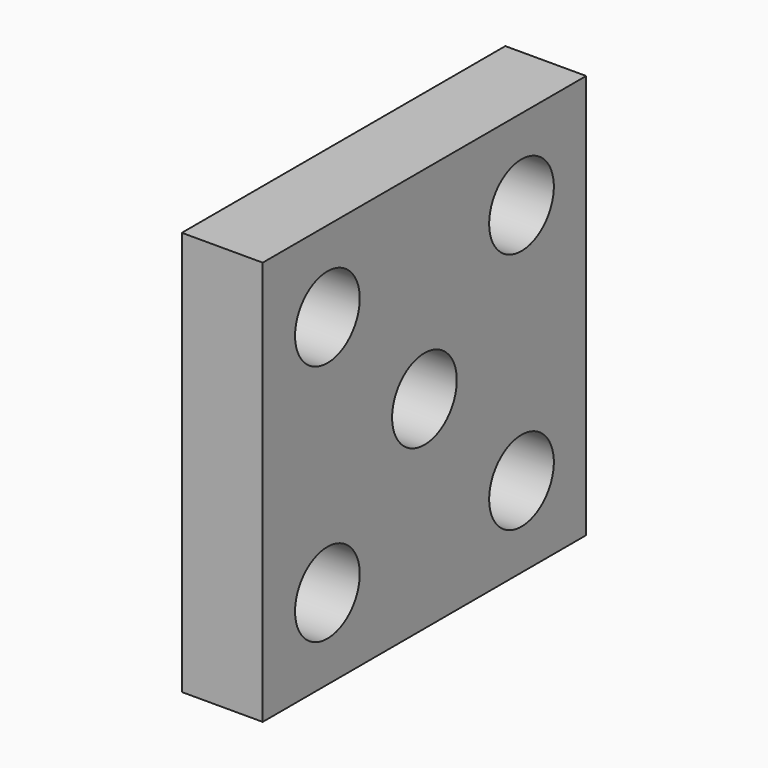
from build123d import *

# Parameters (mm, degrees)
F0_W     = 2
F0_H     = 10
F1_DEPTH = 10
F2_R     = 1
F3_DEPTH = 3


with BuildPart() as f1:
    # F0 (on Top) → F1 (new body)
    with BuildSketch(Plane.XY):
        with Locations((-9.288462, -44.42308)):
            Rectangle(F0_W, F0_H)
    extrude(amount=F1_DEPTH)

    # F2 (on face) → F3 (cut)
    with BuildSketch(Plane(origin=(-10.288462, 0, 0), x_dir=(0, -1, 0), z_dir=(-1, 0, 0))):
        with Locations((41.42308, 8)):
            Circle(F2_R)
        with Locations((44.42308, 5)):
            Circle(F2_R)
        with Locations((47.42308, 8)):
            Circle(F2_R)
        with Locations((47.42308, 2)):
            Circle(F2_R)
        with Locations((41.42308, 2)):
            Circle(F2_R)
    extrude(amount=-F3_DEPTH, mode=Mode.SUBTRACT)


solid = f1.part
